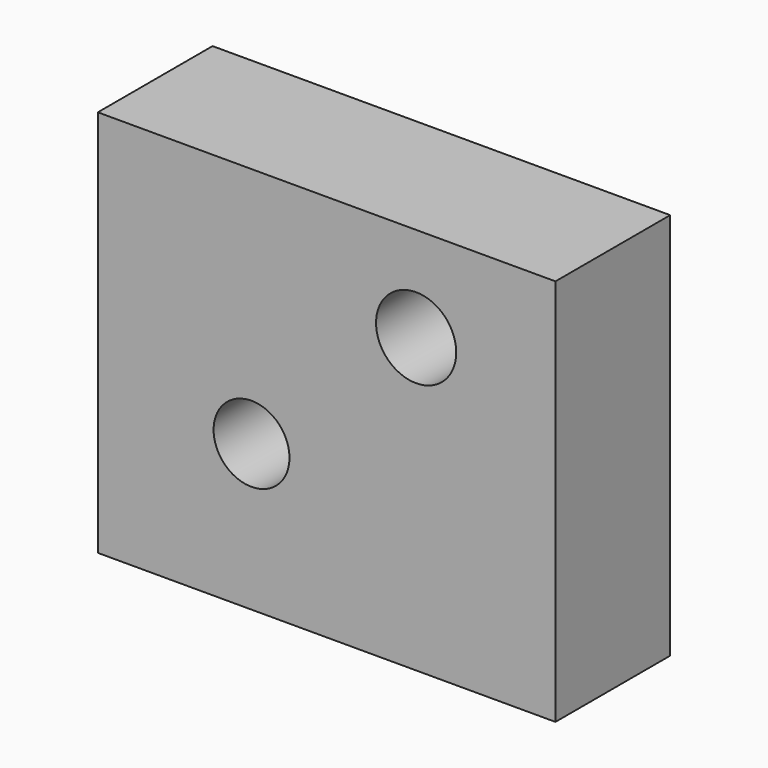
from build123d import *

# Parameters (mm, degrees)
F0_W     = 20.2
F0_H     = 17.12
F0_R     = 1.675
F0_R_2   = 1.77
F1_DEPTH = 3.165


with BuildPart() as f1:
    # F0 (on Front) → F1 (new body, symmetric)
    with BuildSketch(Plane.XZ):
        Rectangle(F0_W, F0_H)
        with Locations((-3.315, -2.115)):
            Circle(F0_R, mode=Mode.SUBTRACT)
        with Locations((3.95, 4.37)):
            Circle(F0_R_2, mode=Mode.SUBTRACT)
    extrude(amount=F1_DEPTH, both=True)


solid = f1.part
